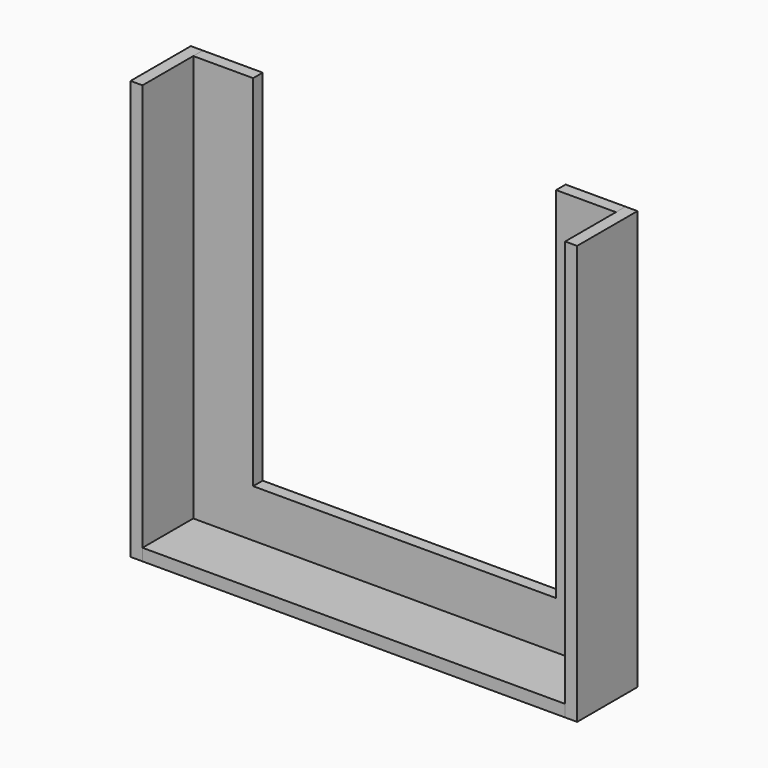
from build123d import *

# Parameters (mm, degrees)
F1_DEPTH = 63
F2_W     = 353
F2_H     = 10
F3_DEPTH = 53
F5_DEPTH = 10


with BuildPart() as f1:
    # F0 (on Front) → F1 (new body)
    with BuildSketch(Plane.XZ):
        Polygon((-10, 0), (0, 0), (0, 10), (0, 350), (-10, 350), align=None)
        Polygon((353, 10), (353, 0), (363, 0), (363, 350), (353, 350), align=None)
    extrude(amount=-F1_DEPTH)


with BuildPart() as f3:
    # F2 (on Front) → F3 (new body)
    with BuildSketch(Plane.XZ):
        with Locations((176.5, 5)):
            Rectangle(F2_W, F2_H)
    extrude(amount=-F3_DEPTH)


with BuildPart() as f5:
    # F4 (on face) → F5 (new body)
    with BuildSketch(Plane(origin=(0, 53, 0), x_dir=(-1, 0, 0), z_dir=(0, 1, 0))):
        Polygon((-353, 0), (0, 0), (0, 350), (-50, 350), (-50, 50), (-303, 50), (-303, 350), (-353, 350), align=None)
    extrude(amount=F5_DEPTH)


solid = Compound([f1.part, f3.part, f5.part])
